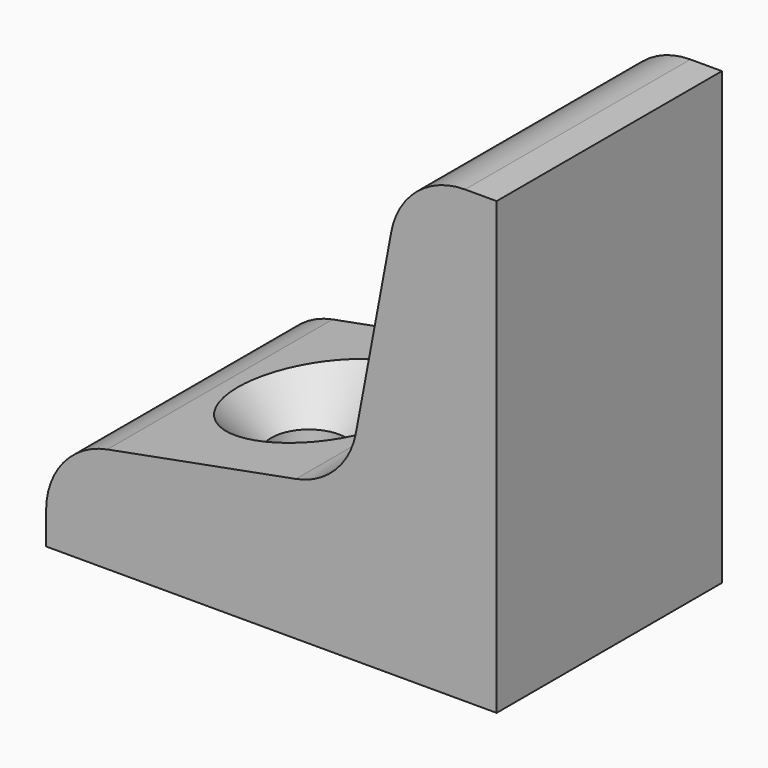
from build123d import *

# Parameters (mm, degrees)
F1_DEPTH = 7.5


with BuildPart() as f1:
    # F0 (on Front) → F1 (new body, symmetric)
    with BuildSketch(Plane.XZ):
        with BuildLine():
            Line((-24, 1.680295), (-24, 0))
            Line((-24, 0), (0, 0))
            Line((0, 0), (0, 24))
            Line((0, 24), (-1.680295, 24))
            ThreePointArc((-1.680295, 24), (-4.234838, 23.078036), (-5.611784, 20.737154))
            Line((-5.611784, 20.737154), (-7.495631, 10.689966))
            ThreePointArc((-7.495631, 10.689966), (-8.598693, 8.598693), (-10.689966, 7.495631))
            Line((-10.689966, 7.495631), (-20.737154, 5.611784))
            ThreePointArc((-20.737154, 5.611784), (-23.078036, 4.234838), (-24, 1.680295))
        make_face()
    extrude(amount=F1_DEPTH, both=True)

    # F2 (on Front) → F3 (revolve, cut)
    with BuildSketch(Plane.XZ):
        Polygon((-18, 4), (-18, 0), (-16, 0), (-16, 8), (-22, 8), align=None)
    revolve(axis=Axis((-16, 0, 4), (0, 0, 1)), mode=Mode.SUBTRACT)


solid = f1.part
